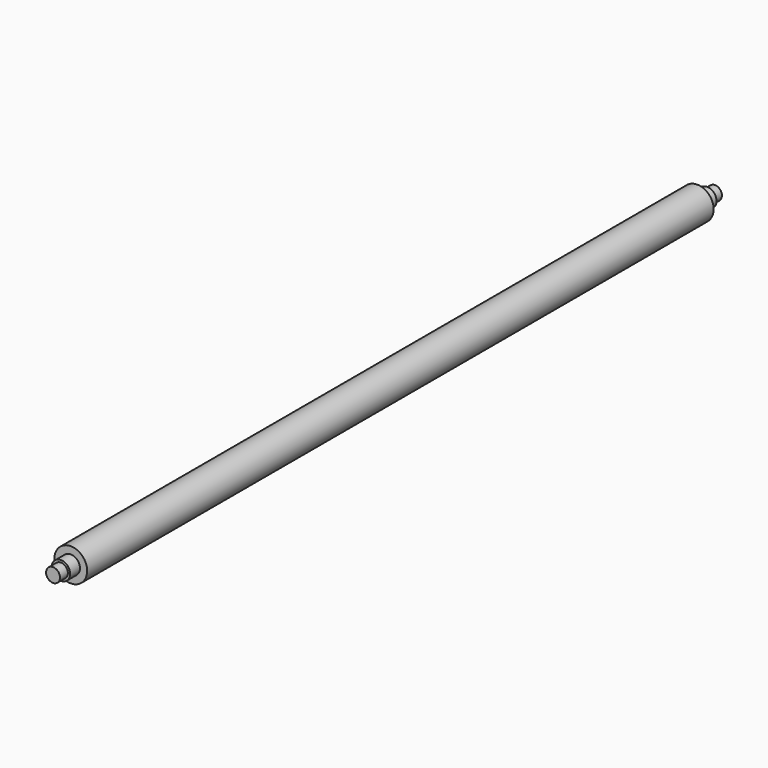
from build123d import *

# Parameters (mm, degrees)
F0_R     = 20
F1_DEPTH = 955
F2_R     = 11.254602
F3_DEPTH = 15
F4_R     = 11.5
F5_DEPTH = 15
F6_R     = 8.5
F7_DEPTH = 12
F8_R     = 8.5
F9_DEPTH = 12


with BuildPart() as f1:
    # F0 (on Front) → F1 (new body)
    with BuildSketch(Plane.XZ):
        Circle(F0_R)
    extrude(amount=F1_DEPTH)

    # F2 (on face) → F3 (join)
    with BuildSketch(Plane.XZ.offset(955)):
        Circle(F2_R)
    extrude(amount=F3_DEPTH)

    # F4 (on face) → F5 (join)
    with BuildSketch(Plane(origin=(0, 0, 0), x_dir=(-1, 0, 0), z_dir=(0, 1, 0))):
        Circle(F4_R)
    extrude(amount=F5_DEPTH)

    # F6 (on face) → F7 (join)
    with BuildSketch(Plane.XZ.offset(970)):
        Circle(F6_R)
    extrude(amount=F7_DEPTH)

    # F8 (on face) → F9 (join)
    with BuildSketch(Plane(origin=(0, 15, 0), x_dir=(-1, 0, 0), z_dir=(0, 1, 0))):
        Circle(F8_R)
    extrude(amount=F9_DEPTH)


solid = f1.part
